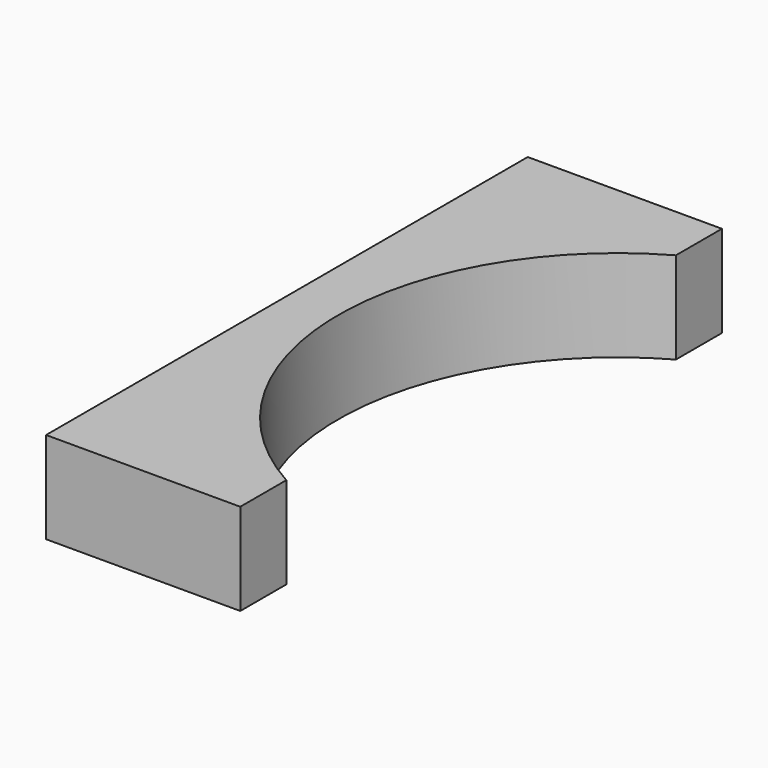
from build123d import *

# Parameters (mm, degrees)
F1_DEPTH = 25


with BuildPart() as f1:
    # F0 (on Top) → F1 (new body)
    with BuildSketch(Plane.XY):
        with BuildLine():
            ThreePointArc((-37.094474, -66.332496), (-76, 0), (-37.094474, 66.332496))
            Line((-37.094474, 66.332496), (-37.094474, 82))
            ThreePointArc((-37.094474, 82), (-75.625732, 48.792916), (-90, 0))
            ThreePointArc((-90, 0), (-75.625732, -48.792916), (-37.094474, -82))
            Line((-37.094474, -82), (-37.094474, -66.332496))
        make_face()
        with BuildLine():
            ThreePointArc((-90, 0), (-75.625732, 48.792916), (-37.094474, 82))
            Line((-37.094474, 82), (-90, 82))
            Line((-90, 82), (-90, 0))
        make_face()
        with BuildLine():
            Line((-90, -82), (-37.094474, -82))
            ThreePointArc((-37.094474, -82), (-75.625732, -48.792916), (-90, 0))
            Line((-90, 0), (-90, -82))
        make_face()
    extrude(amount=F1_DEPTH)


solid = f1.part
